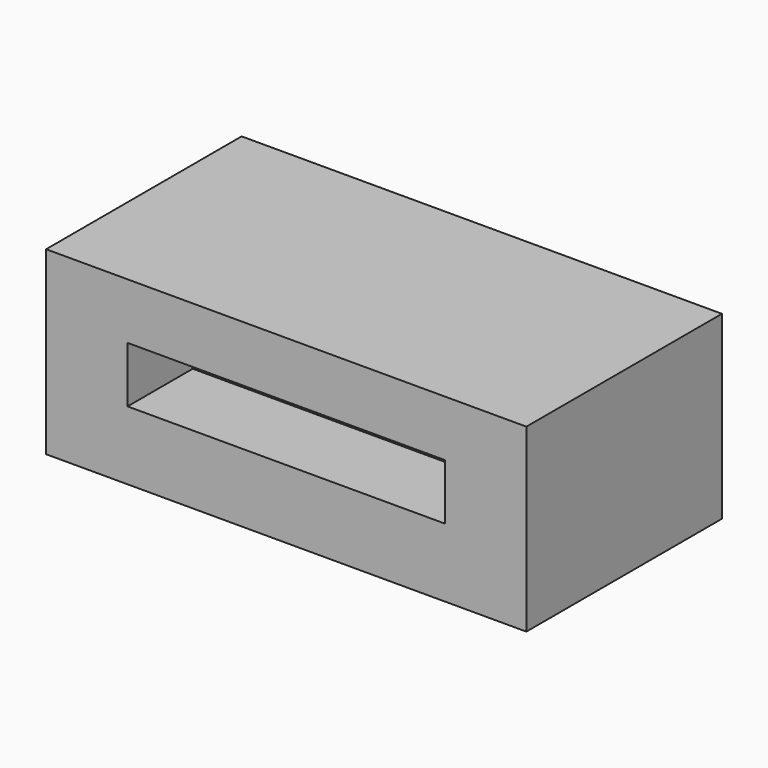
from build123d import *

# Parameters (mm, degrees)
F1_DEPTH = 57
F0_W     = 36
F0_H     = 13.043038
F0_W_2   = 19
F2_DEPTH = 38


with BuildPart() as f1:
    # F0 (on Front) → F1 (new body)
    with BuildSketch(Plane.XZ):
        Polygon((0, 42.086077), (0, 0), (112, 0), (112, 42.086077), (93, 42.086077), (93, 29.043038), (93, 16), (74, 16), (38, 16), (19, 16), (19, 29.043038), (19, 42.086077), align=None)
        Polygon((93, 42.086077), (19, 42.086077), (19, 29.043038), (38, 29.043038), (74, 29.043038), (93, 29.043038), align=None)
    extrude(amount=F1_DEPTH)

    # F0 (on Front) → F2 (join)
    with BuildSketch(Plane.XZ):
        with Locations((56, 22.521519)):
            Rectangle(F0_W, F0_H)
        with Locations((28.5, 22.521519)):
            Rectangle(F0_W_2, F0_H)
        with Locations((83.5, 22.521519)):
            Rectangle(F0_W_2, F0_H)
    extrude(amount=F2_DEPTH)


solid = f1.part
